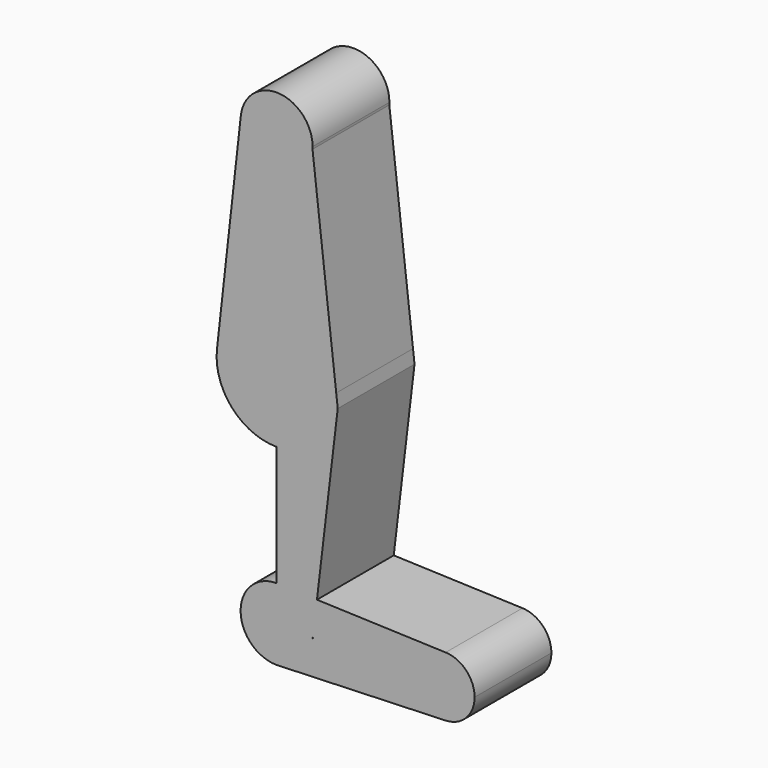
from build123d import *

# Parameters (mm, degrees)
F1_DEPTH = 25.4
F2_DEPTH = 25.4


with BuildPart() as f1:
    # F0 (on Front) → F1 (new body)
    with BuildSketch(Plane.XZ):
        with BuildLine():
            Line((0, 0), (0, 9.525))
            ThreePointArc((0, 9.525), (-9.525, 0), (0, -9.525))
            Line((0, -9.525), (0.6773435479, -9.500885786))
            ThreePointArc((0.6773435479, -9.500885786), (6.5771572573, -6.8896028487), (9.4592491619, -1.117242271))
            ThreePointArc((9.4592491619, -1.117242271), (9.5085480823, -0.5595876752), (9.525, 0))
            Line((9.525, 0), (0, 0))
        make_face()
        with BuildLine():
            Line((0, 41.275), (0, 9.525))
            ThreePointArc((0, 9.525), (0.3388863295, 9.5189695375), (0.6773435479, 9.500885786))
            Line((0.6773435479, 9.500885786), (10.676261341, 9.1449127433))
            Line((10.676261341, 9.1449127433), (16.1720081428, 55.4634825416))
            Line((16.1720081428, 55.4634825416), (15.771858623, 58.9566822016))
            ThreePointArc((15.771858623, 58.9566822016), (15.8491936804, 58.0548119585), (15.875, 57.15))
            ThreePointArc((15.875, 57.15), (11.2253201513, 45.9246798487), (0, 41.275))
        make_face()
        with BuildLine():
            Line((0.6773435479, 9.500885786), (0, 9.525))
            Line((0, 9.525), (0, 0))
            Line((0, 0), (9.525, 0))
            ThreePointArc((9.525, 0), (6.9705567315, 6.4912990883), (0.6773435479, 9.500885786))
        make_face()
        with BuildLine():
            ThreePointArc((0.6773435479, 9.500885786), (0.3388863295, 9.5189695375), (0, 9.525))
            Line((0, 9.525), (0.6773435479, 9.500885786))
        make_face()
        with BuildLine():
            Line((0.6773435479, -9.500885786), (0, -9.525))
            ThreePointArc((0, -9.525), (0.3388863295, -9.5189695375), (0.6773435479, -9.500885786))
        make_face()
        with BuildLine():
            Line((10.676261341, 9.1449127433), (0.6773435479, 9.500885786))
            ThreePointArc((0.6773435479, 9.500885786), (6.9705567315, 6.4912990883), (9.525, 0))
            Line((9.525, 0), (9.5912078693, 0))
            Line((9.5912078693, 0), (10.676261341, 9.1449127433))
        make_face()
        with BuildLine():
            Line((0, 73.025), (0, 41.275))
            ThreePointArc((0, 41.275), (11.2253201513, 45.9246798487), (15.875, 57.15))
            ThreePointArc((15.875, 57.15), (15.8491936804, 58.0548119585), (15.771858623, 58.9566822016))
            ThreePointArc((15.771858623, 58.9566822016), (10.5672736562, 68.9968709993), (0, 73.025))
        make_face()
        with BuildLine():
            ThreePointArc((-15.7766896907, 58.9139975635), (-11.8325628315, 46.5667074197), (0, 41.275))
            Line((0, 41.275), (0, 73.025))
            ThreePointArc((0, 73.025), (-10.5832925803, 68.9825628315), (-15.7766896907, 58.9139975635))
        make_face()
        with BuildLine():
            ThreePointArc((9.4592491619, -1.117242271), (6.5771572573, -6.8896028487), (0.6773435479, -9.500885786))
            Line((0.6773435479, -9.500885786), (44.7324052746, -7.9324746146))
            ThreePointArc((44.7324052746, -7.9324746146), (38.9380895153, -5.7116327839), (36.5125, 0))
            Line((36.5125, 0), (9.5912078693, 0))
            Line((9.5912078693, 0), (9.4592491619, -1.117242271))
        make_face()
        with BuildLine():
            Line((44.7324052746, 7.9324746146), (10.676261341, 9.1449127433))
            Line((10.676261341, 9.1449127433), (9.5912078693, 0))
            Line((9.5912078693, 0), (36.5125, 0))
            ThreePointArc((36.5125, 0), (38.9380895153, 5.7116327839), (44.7324052746, 7.9324746146))
        make_face()
        with BuildLine():
            Line((-9.4751940083, 115.2727916044), (-15.7766896907, 58.9139975635))
            ThreePointArc((-15.7766896907, 58.9139975635), (-10.5832925803, 68.9825628315), (0, 73.025))
            Line((0, 73.025), (0, 104.775))
            ThreePointArc((0, 104.775), (-7.0707660487, 107.9180024691), (-9.4751940083, 115.2727916044))
        make_face()
        with BuildLine():
            Line((0, 104.775), (0, 73.025))
            ThreePointArc((0, 73.025), (10.5672736562, 68.9968709993), (15.771858623, 58.9566822016))
            Line((15.771858623, 58.9566822016), (9.5042343668, 113.6713871614))
            ThreePointArc((9.5042343668, 113.6713871614), (6.5091507784, 107.3461103587), (0, 104.775))
        make_face()
        with BuildLine():
            ThreePointArc((36.5125, 0), (38.9380895153, -5.7116327839), (44.7324052746, -7.9324746146))
            ThreePointArc((44.7324052746, -7.9324746146), (50.1616327839, -5.5119104847), (52.3875, 0))
            ThreePointArc((52.3875, 0), (50.1616327839, 5.5119104847), (44.7324052746, 7.9324746146))
            ThreePointArc((44.7324052746, 7.9324746146), (38.9380895153, 5.7116327839), (36.5125, 0))
        make_face()
        with BuildLine():
            ThreePointArc((9.525, 114.3), (0.4870328896, 123.8125403528), (-9.4751940083, 115.2727916044))
            ThreePointArc((-9.4751940083, 115.2727916044), (-7.0707660487, 107.9180024691), (0, 104.775))
            ThreePointArc((0, 104.775), (6.5091507784, 107.3461103587), (9.5042343668, 113.6713871614))
            ThreePointArc((9.5042343668, 113.6713871614), (9.5198071762, 113.9855221342), (9.525, 114.3))
        make_face()
    extrude(amount=F1_DEPTH)

    # F0 (on Front) → F2 (join)
    with BuildSketch(Plane.XZ):
        with BuildLine():
            Line((0, 0), (0, 9.525))
            ThreePointArc((0, 9.525), (-9.525, 0), (0, -9.525))
            Line((0, -9.525), (0.6773435479, -9.500885786))
            ThreePointArc((0.6773435479, -9.500885786), (6.5771572573, -6.8896028487), (9.4592491619, -1.117242271))
            ThreePointArc((9.4592491619, -1.117242271), (9.5085480823, -0.5595876752), (9.525, 0))
            Line((9.525, 0), (0, 0))
        make_face()
        with BuildLine():
            Line((0, 41.275), (0, 9.525))
            ThreePointArc((0, 9.525), (0.3388863295, 9.5189695375), (0.6773435479, 9.500885786))
            Line((0.6773435479, 9.500885786), (10.676261341, 9.1449127433))
            Line((10.676261341, 9.1449127433), (16.1720081428, 55.4634825416))
            Line((16.1720081428, 55.4634825416), (15.771858623, 58.9566822016))
            ThreePointArc((15.771858623, 58.9566822016), (15.8491936804, 58.0548119585), (15.875, 57.15))
            ThreePointArc((15.875, 57.15), (11.2253201513, 45.9246798487), (0, 41.275))
        make_face()
        with BuildLine():
            Line((0.6773435479, 9.500885786), (0, 9.525))
            Line((0, 9.525), (0, 0))
            Line((0, 0), (9.525, 0))
            ThreePointArc((9.525, 0), (6.9705567315, 6.4912990883), (0.6773435479, 9.500885786))
        make_face()
        with BuildLine():
            ThreePointArc((0.6773435479, 9.500885786), (0.3388863295, 9.5189695375), (0, 9.525))
            Line((0, 9.525), (0.6773435479, 9.500885786))
        make_face()
        with BuildLine():
            Line((0.6773435479, -9.500885786), (0, -9.525))
            ThreePointArc((0, -9.525), (0.3388863295, -9.5189695375), (0.6773435479, -9.500885786))
        make_face()
        with BuildLine():
            Line((10.676261341, 9.1449127433), (0.6773435479, 9.500885786))
            ThreePointArc((0.6773435479, 9.500885786), (6.9705567315, 6.4912990883), (9.525, 0))
            Line((9.525, 0), (9.5912078693, 0))
            Line((9.5912078693, 0), (10.676261341, 9.1449127433))
        make_face()
        with BuildLine():
            Line((0, 73.025), (0, 41.275))
            ThreePointArc((0, 41.275), (11.2253201513, 45.9246798487), (15.875, 57.15))
            ThreePointArc((15.875, 57.15), (15.8491936804, 58.0548119585), (15.771858623, 58.9566822016))
            ThreePointArc((15.771858623, 58.9566822016), (10.5672736562, 68.9968709993), (0, 73.025))
        make_face()
        with BuildLine():
            ThreePointArc((-15.7766896907, 58.9139975635), (-11.8325628315, 46.5667074197), (0, 41.275))
            Line((0, 41.275), (0, 73.025))
            ThreePointArc((0, 73.025), (-10.5832925803, 68.9825628315), (-15.7766896907, 58.9139975635))
        make_face()
        with BuildLine():
            ThreePointArc((9.4592491619, -1.117242271), (6.5771572573, -6.8896028487), (0.6773435479, -9.500885786))
            Line((0.6773435479, -9.500885786), (44.7324052746, -7.9324746146))
            ThreePointArc((44.7324052746, -7.9324746146), (38.9380895153, -5.7116327839), (36.5125, 0))
            Line((36.5125, 0), (9.5912078693, 0))
            Line((9.5912078693, 0), (9.4592491619, -1.117242271))
        make_face()
        with BuildLine():
            Line((44.7324052746, 7.9324746146), (10.676261341, 9.1449127433))
            Line((10.676261341, 9.1449127433), (9.5912078693, 0))
            Line((9.5912078693, 0), (36.5125, 0))
            ThreePointArc((36.5125, 0), (38.9380895153, 5.7116327839), (44.7324052746, 7.9324746146))
        make_face()
        with BuildLine():
            Line((-9.4751940083, 115.2727916044), (-15.7766896907, 58.9139975635))
            ThreePointArc((-15.7766896907, 58.9139975635), (-10.5832925803, 68.9825628315), (0, 73.025))
            Line((0, 73.025), (0, 104.775))
            ThreePointArc((0, 104.775), (-7.0707660487, 107.9180024691), (-9.4751940083, 115.2727916044))
        make_face()
        with BuildLine():
            Line((0, 104.775), (0, 73.025))
            ThreePointArc((0, 73.025), (10.5672736562, 68.9968709993), (15.771858623, 58.9566822016))
            Line((15.771858623, 58.9566822016), (9.5042343668, 113.6713871614))
            ThreePointArc((9.5042343668, 113.6713871614), (6.5091507784, 107.3461103587), (0, 104.775))
        make_face()
        with BuildLine():
            ThreePointArc((36.5125, 0), (38.9380895153, -5.7116327839), (44.7324052746, -7.9324746146))
            ThreePointArc((44.7324052746, -7.9324746146), (50.1616327839, -5.5119104847), (52.3875, 0))
            ThreePointArc((52.3875, 0), (50.1616327839, 5.5119104847), (44.7324052746, 7.9324746146))
            ThreePointArc((44.7324052746, 7.9324746146), (38.9380895153, 5.7116327839), (36.5125, 0))
        make_face()
        with BuildLine():
            ThreePointArc((9.525, 114.3), (0.4870328896, 123.8125403528), (-9.4751940083, 115.2727916044))
            ThreePointArc((-9.4751940083, 115.2727916044), (-7.0707660487, 107.9180024691), (0, 104.775))
            ThreePointArc((0, 104.775), (6.5091507784, 107.3461103587), (9.5042343668, 113.6713871614))
            ThreePointArc((9.5042343668, 113.6713871614), (9.5198071762, 113.9855221342), (9.525, 114.3))
        make_face()
    extrude(amount=F2_DEPTH)


solid = f1.part
